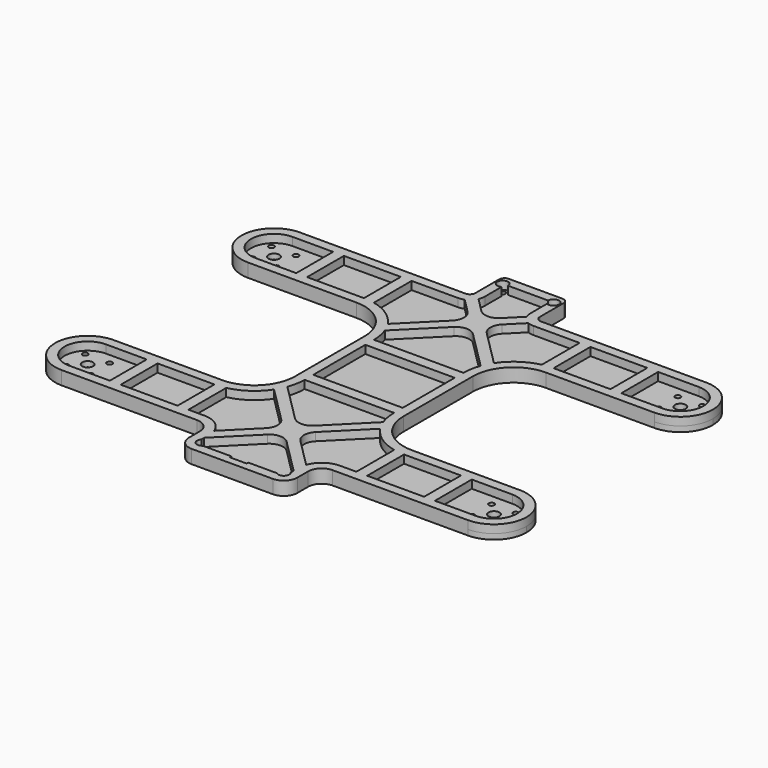
from build123d import *

# Parameters (mm, degrees)
F0_R     = 1
F0_W     = 6.2
F0_H     = 1.2
F0_R_2   = 2
F1_DEPTH = 2
F2_W     = 21
F2_H     = 17
F2_W_2   = 33
F2_H_2   = 24
F3_DEPTH = 3


with BuildPart() as f1:
    # F0 (on Top) → F1 (new body)
    with BuildSketch(Plane.XY):
        with BuildLine():
            Line((9.9, 70), (-9.9, 70))
            ThreePointArc((-9.9, 70), (-11.3142135624, 69.4142135624), (-11.9, 68))
            Line((-11.9, 68), (-11.9, 57))
            ThreePointArc((-11.9, 57), (-12.4857864376, 55.5857864376), (-13.9, 55))
            Line((-13.9, 55), (-75, 55))
            ThreePointArc((-75, 55), (-66.5147186258, 51.4852813742), (-63, 43))
            ThreePointArc((-63, 43), (-66.5147186258, 34.5147186258), (-75, 31))
            Line((-75, 31), (-35, 31))
            ThreePointArc((-35, 31), (-24.3933982822, 26.6066017178), (-20, 16))
            Line((-20, 16), (-20, -16))
            ThreePointArc((-20, -16), (-24.3933982822, -26.6066017178), (-35, -31))
            Line((-35, -31), (-75, -31))
            ThreePointArc((-75, -31), (-66.5147186258, -34.5147186258), (-63, -43))
            ThreePointArc((-63, -43), (-66.5147186258, -51.4852813742), (-75, -55))
            Line((-75, -55), (-25, -55))
            ThreePointArc((-25, -55), (-21.4644660941, -56.4644660941), (-20, -60))
            Line((-20, -60), (-20, -65))
            ThreePointArc((-20, -65), (-18.5355339059, -68.5355339059), (-15, -70))
            Line((-15, -70), (15, -70))
            ThreePointArc((15, -70), (18.5355339059, -68.5355339059), (20, -65))
            Line((20, -65), (20, -60))
            ThreePointArc((20, -60), (21.4644660941, -56.4644660941), (25, -55))
            Line((25, -55), (75, -55))
            ThreePointArc((75, -55), (63, -43), (75, -31))
            Line((75, -31), (35, -31))
            ThreePointArc((35, -31), (24.3933982822, -26.6066017178), (20, -16))
            Line((20, -16), (20, 16))
            ThreePointArc((20, 16), (24.3933982822, 26.6066017178), (35, 31))
            Line((35, 31), (75, 31))
            ThreePointArc((75, 31), (63, 43), (75, 55))
            Line((75, 55), (13.9, 55))
            ThreePointArc((13.9, 55), (12.4857864376, 55.5857864376), (11.9, 57))
            Line((11.9, 57), (11.9, 68))
            ThreePointArc((11.9, 68), (11.3142135624, 69.4142135624), (9.9, 70))
        make_face()
        with Locations((-15, -65)):
            Circle(F0_R, mode=Mode.SUBTRACT)
        with Locations((0, -66.65)):
            Rectangle(F0_W, F0_H, mode=Mode.SUBTRACT)
        with Locations((15, -65)):
            Circle(F0_R, mode=Mode.SUBTRACT)
        with Locations((-9.4, 66.5)):
            Circle(F0_R, mode=Mode.SUBTRACT)
        with Locations((9.4, 66.5)):
            Circle(F0_R, mode=Mode.SUBTRACT)
        with BuildLine():
            ThreePointArc((-63, 43), (-66.5147186258, 51.4852813742), (-75, 55))
            ThreePointArc((-75, 55), (-87, 43), (-75, 31))
            ThreePointArc((-75, 31), (-66.5147186258, 34.5147186258), (-63, 43))
        make_face()
        with Locations((-79.5, 38.5)):
            Circle(F0_R, mode=Mode.SUBTRACT)
        with Locations((-70.5, 38.5)):
            Circle(F0_R, mode=Mode.SUBTRACT)
        with Locations((-75, 43)):
            Circle(F0_R_2, mode=Mode.SUBTRACT)
        with Locations((-79.5, 47.5)):
            Circle(F0_R, mode=Mode.SUBTRACT)
        with Locations((-70.5, 47.5)):
            Circle(F0_R, mode=Mode.SUBTRACT)
        with BuildLine():
            ThreePointArc((87, 43), (83.4852813742, 51.4852813742), (75, 55))
            ThreePointArc((75, 55), (63, 43), (75, 31))
            ThreePointArc((75, 31), (83.4852813742, 34.5147186258), (87, 43))
        make_face()
        with Locations((70.5, 38.5)):
            Circle(F0_R, mode=Mode.SUBTRACT)
        with Locations((75, 43)):
            Circle(F0_R_2, mode=Mode.SUBTRACT)
        with Locations((79.5, 38.5)):
            Circle(F0_R, mode=Mode.SUBTRACT)
        with Locations((70.5, 47.5)):
            Circle(F0_R, mode=Mode.SUBTRACT)
        with Locations((79.5, 47.5)):
            Circle(F0_R, mode=Mode.SUBTRACT)
        with BuildLine():
            ThreePointArc((-63, -43), (-66.5147186258, -34.5147186258), (-75, -31))
            ThreePointArc((-75, -31), (-87, -43), (-75, -55))
            ThreePointArc((-75, -55), (-66.5147186258, -51.4852813742), (-63, -43))
        make_face()
        with Locations((-79.5, -47.5)):
            Circle(F0_R, mode=Mode.SUBTRACT)
        with Locations((-70.5, -47.5)):
            Circle(F0_R, mode=Mode.SUBTRACT)
        with Locations((-79.5, -38.5)):
            Circle(F0_R, mode=Mode.SUBTRACT)
        with Locations((-75, -43)):
            Circle(F0_R_2, mode=Mode.SUBTRACT)
        with Locations((-70.5, -38.5)):
            Circle(F0_R, mode=Mode.SUBTRACT)
        with BuildLine():
            ThreePointArc((87, -43), (83.4852813742, -34.5147186258), (75, -31))
            ThreePointArc((75, -31), (63, -43), (75, -55))
            ThreePointArc((75, -55), (83.4852813742, -51.4852813742), (87, -43))
        make_face()
        with Locations((70.5, -47.5)):
            Circle(F0_R, mode=Mode.SUBTRACT)
        with Locations((79.5, -47.5)):
            Circle(F0_R, mode=Mode.SUBTRACT)
        with Locations((75, -43)):
            Circle(F0_R_2, mode=Mode.SUBTRACT)
        with Locations((70.5, -38.5)):
            Circle(F0_R, mode=Mode.SUBTRACT)
        with Locations((79.5, -38.5)):
            Circle(F0_R, mode=Mode.SUBTRACT)
    extrude(amount=F1_DEPTH)

    # F2 (on face) → F3 (join)
    with BuildSketch(Plane.XY.offset(2)):
        with BuildLine():
            Line((35, 31), (75, 31))
            ThreePointArc((75, 31), (87, 43), (75, 55))
            Line((75, 55), (13.9, 55))
            ThreePointArc((13.9, 55), (12.4857864376, 55.5857864376), (11.9, 57))
            Line((11.9, 57), (11.9, 68))
            ThreePointArc((11.9, 68), (11.3142135624, 69.4142135624), (9.9, 70))
            Line((9.9, 70), (-9.9, 70))
            ThreePointArc((-9.9, 70), (-11.3142135624, 69.4142135624), (-11.9, 68))
            Line((-11.9, 68), (-11.9, 57))
            ThreePointArc((-11.9, 57), (-12.4857864376, 55.5857864376), (-13.9, 55))
            Line((-13.9, 55), (-25, 55))
            Line((-25, 55), (-75, 55))
            ThreePointArc((-75, 55), (-87, 43), (-75, 31))
            Line((-75, 31), (-35, 31))
            ThreePointArc((-35, 31), (-24.3933982822, 26.6066017178), (-20, 16))
            Line((-20, 16), (-20, -16))
            ThreePointArc((-20, -16), (-24.3933982822, -26.6066017178), (-35, -31))
            Line((-35, -31), (-75, -31))
            ThreePointArc((-75, -31), (-87, -43), (-75, -55))
            Line((-75, -55), (-25, -55))
            ThreePointArc((-25, -55), (-21.4644660941, -56.4644660941), (-20, -60))
            Line((-20, -60), (-20, -65))
            ThreePointArc((-20, -65), (-18.5355339059, -68.5355339059), (-15, -70))
            Line((-15, -70), (15, -70))
            ThreePointArc((15, -70), (18.5355339059, -68.5355339059), (20, -65))
            Line((20, -65), (20, -60))
            ThreePointArc((20, -60), (21.4644660941, -56.4644660941), (25, -55))
            Line((25, -55), (75, -55))
            ThreePointArc((75, -55), (87, -43), (75, -31))
            Line((75, -31), (35, -31))
            ThreePointArc((35, -31), (24.3933982822, -26.6066017178), (20, -16))
            Line((20, -16), (20, 16))
            ThreePointArc((20, 16), (24.3933982822, 26.6066017178), (35, 31))
        make_face()
        with BuildLine():
            Line((-60, -51.5), (-75, -51.5))
            ThreePointArc((-75, -51.5), (-83.5, -43), (-75, -34.5))
            Line((-75, -34.5), (-60, -34.5))
            Line((-60, -34.5), (-60, -51.5))
        make_face(mode=Mode.SUBTRACT)
        with Locations((-45.5, -43)):
            Rectangle(F2_W, F2_H, mode=Mode.SUBTRACT)
        with BuildLine():
            ThreePointArc((-16.9884685906, -57.1600414658), (-20.095392347, -53.0577508133), (-25, -51.5))
            Line((-25, -51.5), (-31, -51.5))
            Line((-31, -51.5), (-31, -34.0623918682))
            ThreePointArc((-31, -34.0623918682), (-24.5364575838, -31.2566143067), (-19.5908478381, -26.2375792867))
            Line((-19.5908478381, -26.2375792867), (-6.3639610307, -39.4644660941))
            ThreePointArc((-6.3639610307, -39.4644660941), (-4.8994949366, -43), (-6.3639610307, -46.5355339059))
            Line((-6.3639610307, -46.5355339059), (-16.9884685906, -57.1600414658))
        make_face(mode=Mode.SUBTRACT)
        with BuildLine():
            Line((-16.5, -63.6771243445), (-16.5, -62.3284271247))
            Line((-16.5, -62.3284271247), (-3.5355339059, -49.3639610307))
            ThreePointArc((-3.5355339059, -49.3639610307), (0, -47.8994949366), (3.5355339059, -49.3639610307))
            Line((3.5355339059, -49.3639610307), (16.5, -62.3284271247))
            Line((16.5, -62.3284271247), (16.5, -63.6771243445))
            ThreePointArc((16.5, -63.6771243445), (16.8708286934, -64.2928932188), (17, -65))
            ThreePointArc((17, -65), (15.8228756555, -66.8228756555), (13.6771243445, -66.5))
            Line((13.6771243445, -66.5), (3.1, -66.5))
            Line((3.1, -66.5), (3.1, -67.25))
            Line((3.1, -67.25), (-3.1, -67.25))
            Line((-3.1, -67.25), (-3.1, -66.5))
            Line((-3.1, -66.5), (-13.6771243445, -66.5))
            ThreePointArc((-13.6771243445, -66.5), (-16.4142135624, -66.4142135624), (-16.5, -63.6771243445))
        make_face(mode=Mode.SUBTRACT)
        with BuildLine():
            ThreePointArc((25, -51.5), (20.095392347, -53.0577508133), (16.9884685906, -57.1600414658))
            Line((16.9884685906, -57.1600414658), (6.3639610307, -46.5355339059))
            ThreePointArc((6.3639610307, -46.5355339059), (4.8994949366, -43), (6.3639610307, -39.4644660941))
            Line((6.3639610307, -39.4644660941), (19.5908478381, -26.2375792867))
            ThreePointArc((19.5908478381, -26.2375792867), (24.5364575838, -31.2566143067), (31, -34.0623918682))
            Line((31, -34.0623918682), (31, -51.5))
            Line((31, -51.5), (25, -51.5))
        make_face(mode=Mode.SUBTRACT)
        with Locations((45.5, -43)):
            Rectangle(F2_W, F2_H, mode=Mode.SUBTRACT)
        with BuildLine():
            ThreePointArc((75, -34.5), (83.5, -43), (75, -51.5))
            Line((75, -51.5), (60, -51.5))
            Line((60, -51.5), (60, -34.5))
            Line((60, -34.5), (75, -34.5))
        make_face(mode=Mode.SUBTRACT)
        with BuildLine():
            ThreePointArc((-17.6773318149, -22.4942410603), (-16.7967123653, -19.3000483766), (-16.5, -16))
            Line((-16.5, -16), (16.5, -16))
            ThreePointArc((16.5, -16), (16.7967123653, -19.3000483766), (17.6773318149, -22.4942410603))
            Line((17.6773318149, -22.4942410603), (3.5355339059, -36.6360389693))
            ThreePointArc((3.5355339059, -36.6360389693), (0, -38.1005050634), (-3.5355339059, -36.6360389693))
            Line((-3.5355339059, -36.6360389693), (-17.6773318149, -22.4942410603))
        make_face(mode=Mode.SUBTRACT)
        with BuildLine():
            ThreePointArc((-75, 34.5), (-83.5, 43), (-75, 51.5))
            Line((-75, 51.5), (-60, 51.5))
            Line((-60, 51.5), (-60, 34.5))
            Line((-60, 34.5), (-75, 34.5))
        make_face(mode=Mode.SUBTRACT)
        with Locations((-45.5, 43)):
            Rectangle(F2_W, F2_H, mode=Mode.SUBTRACT)
        with BuildLine():
            Line((-31, 34.0623918682), (-31, 51.5))
            Line((-31, 51.5), (-25, 51.5))
            Line((-25, 51.5), (-13.9, 51.5))
            ThreePointArc((-13.9, 51.5), (-12.8089614565, 51.6093010753), (-11.7612871624, 51.9328600376))
            Line((-11.7612871624, 51.9328600376), (-6.3639610307, 46.5355339059))
            ThreePointArc((-6.3639610307, 46.5355339059), (-4.8994949366, 43), (-6.3639610307, 39.4644660941))
            Line((-6.3639610307, 39.4644660941), (-19.5908478381, 26.2375792867))
            ThreePointArc((-19.5908478381, 26.2375792867), (-24.5364575838, 31.2566143067), (-31, 34.0623918682))
        make_face(mode=Mode.SUBTRACT)
        Rectangle(F2_W_2, F2_H_2, mode=Mode.SUBTRACT)
        with BuildLine():
            ThreePointArc((-16.5, 16), (-16.7967123653, 19.3000483766), (-17.6773318149, 22.4942410603))
            Line((-17.6773318149, 22.4942410603), (-3.5355339059, 36.6360389693))
            ThreePointArc((-3.5355339059, 36.6360389693), (0, 38.1005050634), (3.5355339059, 36.6360389693))
            Line((3.5355339059, 36.6360389693), (17.6773318149, 22.4942410603))
            ThreePointArc((17.6773318149, 22.4942410603), (16.7967123653, 19.3000483766), (16.5, 16))
            Line((16.5, 16), (-16.5, 16))
        make_face(mode=Mode.SUBTRACT)
        with BuildLine():
            Line((6.3639610307, 46.5355339059), (11.7612871624, 51.9328600376))
            ThreePointArc((11.7612871624, 51.9328600376), (12.8089614565, 51.6093010753), (13.9, 51.5))
            Line((13.9, 51.5), (31, 51.5))
            Line((31, 51.5), (31, 34.0623918682))
            ThreePointArc((31, 34.0623918682), (24.5364575838, 31.2566143067), (19.5908478381, 26.2375792867))
            Line((19.5908478381, 26.2375792867), (6.3639610307, 39.4644660941))
            ThreePointArc((6.3639610307, 39.4644660941), (4.8994949366, 43), (6.3639610307, 46.5355339059))
        make_face(mode=Mode.SUBTRACT)
        with BuildLine():
            Line((-3.5355339059, 49.3639610307), (-8.8938197497, 54.7222468744))
            ThreePointArc((-8.8938197497, 54.7222468744), (-8.5248724956, 55.8346655795), (-8.4, 57))
            Line((-8.4, 57), (-8.4, 64.7679491924))
            ThreePointArc((-8.4, 64.7679491924), (-11.1320508076, 67.5), (-7.4, 66.5))
            Line((-7.4, 66.5), (7.4, 66.5))
            ThreePointArc((7.4, 66.5), (9.4, 68.5), (11.4, 66.5))
            ThreePointArc((11.4, 66.5), (10.4, 64.7679491924), (8.4, 64.7679491924))
            Line((8.4, 64.7679491924), (8.4, 57))
            ThreePointArc((8.4, 57), (8.5248724956, 55.8346655795), (8.8938197497, 54.7222468744))
            Line((8.8938197497, 54.7222468744), (3.5355339059, 49.3639610307))
            ThreePointArc((3.5355339059, 49.3639610307), (0, 47.8994949366), (-3.5355339059, 49.3639610307))
        make_face(mode=Mode.SUBTRACT)
        with Locations((45.5, 43)):
            Rectangle(F2_W, F2_H, mode=Mode.SUBTRACT)
        with BuildLine():
            Line((60, 34.5), (60, 51.5))
            Line((60, 51.5), (75, 51.5))
            ThreePointArc((75, 51.5), (83.5, 43), (75, 34.5))
            Line((75, 34.5), (60, 34.5))
        make_face(mode=Mode.SUBTRACT)
    extrude(amount=F3_DEPTH)


solid = f1.part
